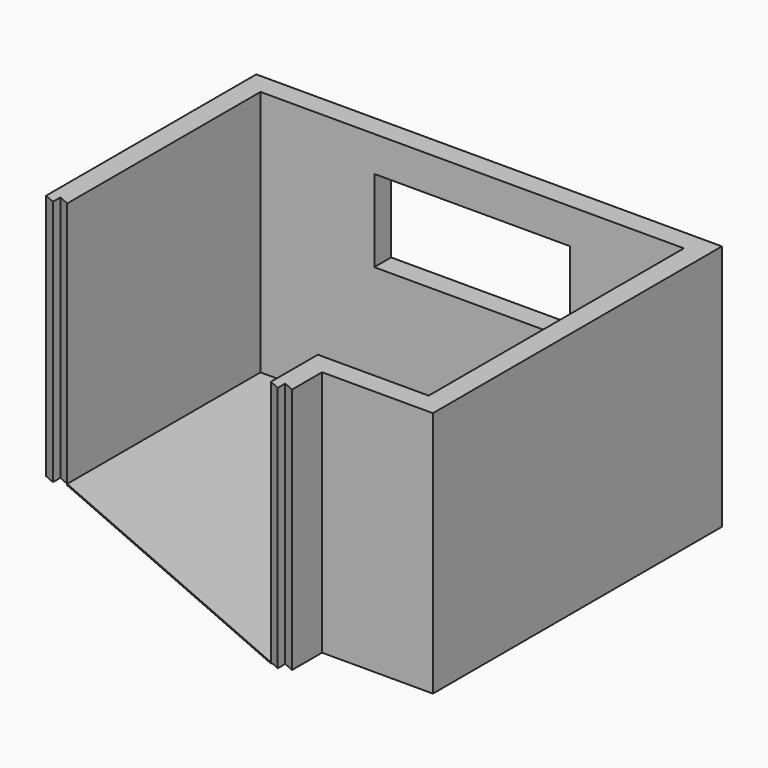
from build123d import *

# Parameters (mm, degrees)
F1_DEPTH = 1105
F3_DEPTH = 700
F5_DEPTH = 300
F7_DEPTH = 10


with BuildPart() as f1:
    # F0 (on Top) → F1 (new body)
    with BuildSketch(Plane.XY):
        Polygon((945, 0), (0, 0), (0, -500), (90, -540), (90, -460), (180, -500), (180, -180), (1125, -180), (1125, 2900), (-2845, 2900), (-2845, 660), (-2755, 620), (-2755, 700), (-2665, 660), (-2665, 2720), (945, 2720), align=None)
    extrude(amount=F1_DEPTH)

    # F2 (on face) → F3 (join)
    with BuildSketch(Plane.XY.offset(1105)):
        Polygon((-2665, 2720), (-1695, 2720), (-1695, 2900), (-2845, 2900), (-2845, 660), (-2755, 620), (-2755, 700), (-2665, 660), align=None)
        Polygon((0, 0), (0, -500), (90, -540), (90, -460), (180, -500), (180, -180), (1125, -180), (1125, 2900), (-25, 2900), (-25, 2720), (945, 2720), (945, 0), align=None)
    extrude(amount=F3_DEPTH)

    # F4 (on face) → F5 (join)
    with BuildSketch(Plane.XY.offset(1805)):
        Polygon((-2845, 2900), (-2845, 660), (-2755, 620), (-2755, 700), (-2665, 660), (-2665, 2720), (945, 2720), (945, 0), (0, 0), (0, -500), (90, -540), (90, -460), (180, -500), (180, -180), (1125, -180), (1125, 2900), align=None)
    extrude(amount=F5_DEPTH)


with BuildPart() as f7:
    # F6 (on Top) → F7 (new body)
    with BuildSketch(Plane.XY):
        Polygon((0, -500), (0, 0), (945, 0), (945, 2720), (-2665, 2720), (-2665, 660), align=None)
    extrude(amount=-F7_DEPTH)


solid = Compound([f1.part, f7.part])
